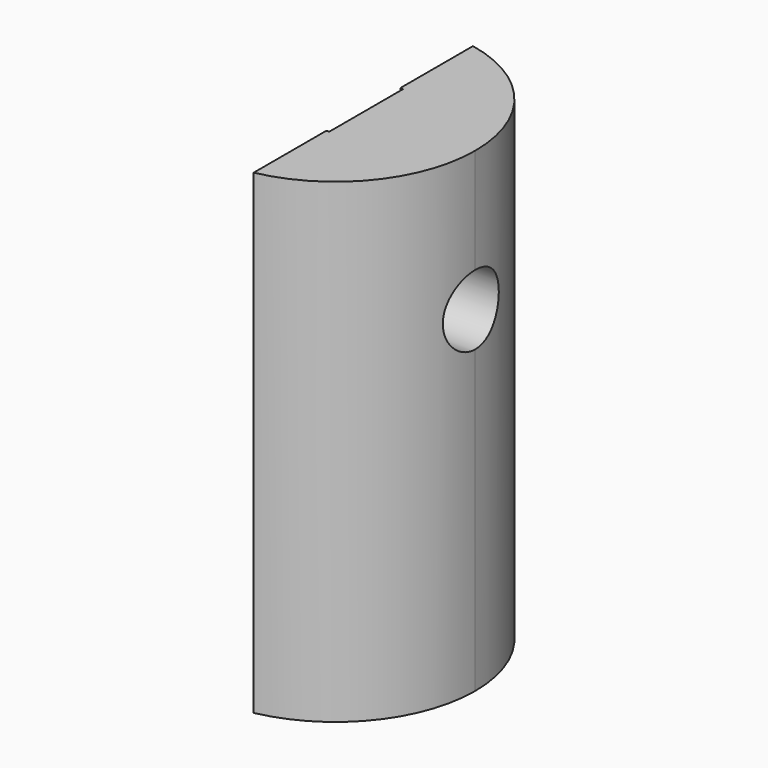
from build123d import *

# Parameters (mm, degrees)
F1_DEPTH = 43.18
F3_D     = 6.35


with BuildPart() as f1:
    # F0 (on Top) → F1 (new body)
    with BuildSketch(Plane.XY):
        with BuildLine():
            ThreePointArc((2.54, -12.4434078933), (9.8373776994, -8.0321852568), (12.7, 0))
            ThreePointArc((12.7, 0), (9.8373776994, 8.0321852568), (2.54, 12.4434078933))
            Line((2.54, 12.4434078933), (2.54, 4.191))
            Line((2.54, 4.191), (2.794, 4.191))
            Line((2.794, 4.191), (2.794, -4.191))
            Line((2.794, -4.191), (2.54, -4.191))
            Line((2.54, -4.191), (2.54, -12.4434078933))
        make_face()
    extrude(amount=F1_DEPTH)

    # F3 (through all)
    with Locations(Plane(origin=(0, 0, 0), x_dir=(0, 1, 0), z_dir=(-1, 0, 0))):
        with Locations((0, -30.48)):
            Hole(F3_D / 2)


solid = f1.part
